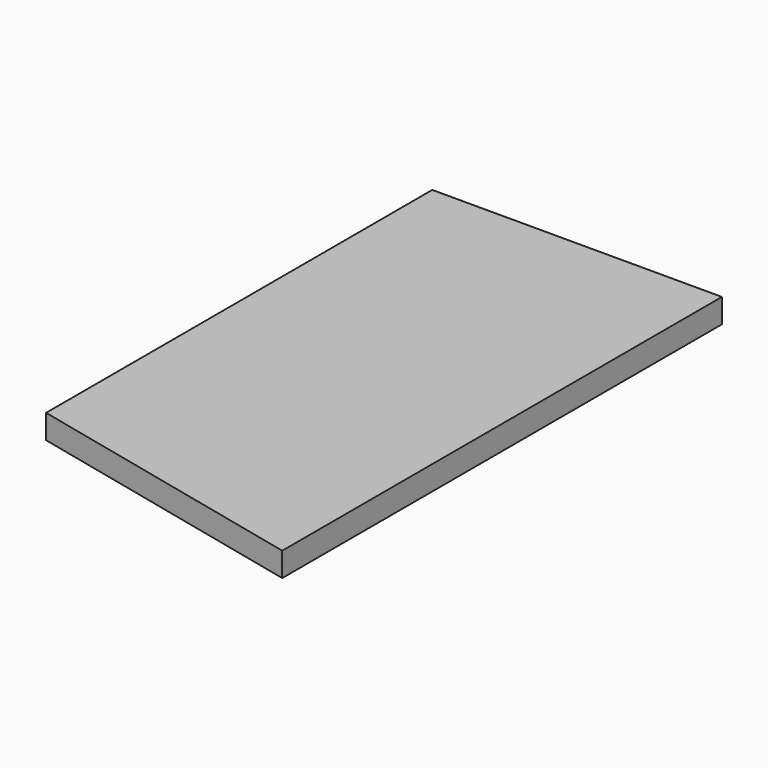
from build123d import *

# Parameters (mm, degrees)
F0_W     = 38.1
F0_H     = 63.5
F1_DEPTH = 3.175


with BuildPart() as f1:
    # F0 (on Top) → F1 (new body)
    with BuildSketch(Plane.XY):
        Polygon((19.05, -40.546078), (19.05, -31.75), (-19.05, -31.75), align=None)
        Rectangle(F0_W, F0_H)
    extrude(amount=F1_DEPTH)


solid = f1.part
